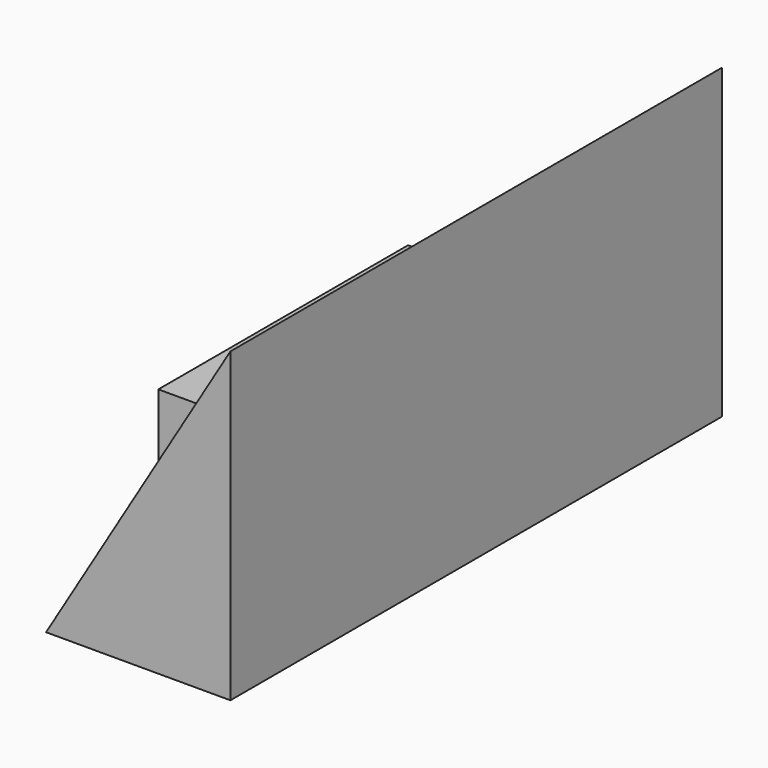
from build123d import *

# Parameters (mm, degrees)
F1_DEPTH = 127
F3_START = 32.258
F3_DEPTH = 64.516


with BuildPart() as f1:
    # F0 (on Front) → F1 (new body)
    with BuildSketch(Plane.XZ):
        Polygon((-18.0714745075, -36.5593432561), (20.0285254925, -36.5593432561), (20.0285254925, 26.9406567439), align=None)
    extrude(amount=F1_DEPTH)


with BuildPart() as f3:
    # F2 (on Front) → F3 (new body)
    with BuildSketch(Plane.XZ.offset(F3_START)):
        Polygon((-19.05, -4.9654923324), (-19.05, -36.7154923324), (0, -4.9654923324), align=None)
    extrude(amount=F3_DEPTH)


solid = Compound([f1.part, f3.part])
